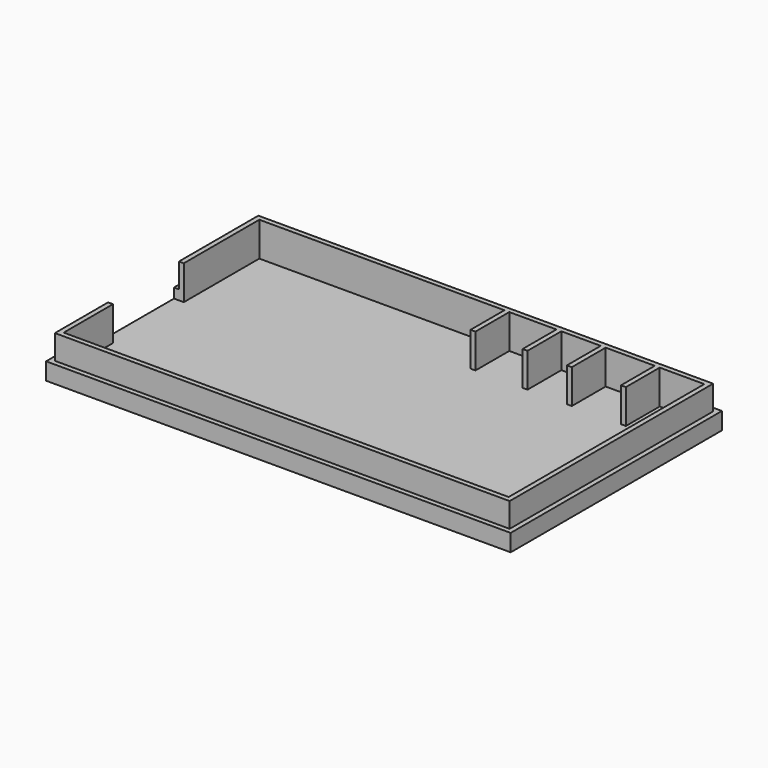
from build123d import *

# Parameters (mm, degrees)
F0_W     = 95
F0_H     = 54
F1_DEPTH = 8.5
F3_DEPTH = 7
F4_W     = 2
F4_H     = 18.1
F5_DEPTH = 7
F7_DEPTH = 5


with BuildPart() as f1:
    # F0 (on Top) → F1 (new body)
    with BuildSketch(Plane.XY):
        Rectangle(F0_W, F0_H)
    extrude(amount=F1_DEPTH)

    # F2 (on face) → F3 (cut)
    with BuildSketch(Plane.XY.offset(8.5)):
        Polygon((-45.5, 25), (-45.5, -25), (45.5, -25), (45.5, 25), (36.37, 25), (36.37, 16.354831), (35.37, 16.354831), (35.37, 25), (25.32, 25), (25.32, 16.354831), (24.32, 16.354831), (24.32, 25), (16.26, 25), (16.26, 16.354831), (15.26, 16.354831), (15.26, 25), (5.62, 25), (5.62, 16.354831), (4.62, 16.354831), (4.62, 25), align=None)
    extrude(amount=-F3_DEPTH, mode=Mode.SUBTRACT)

    # F4 (on face) → F5 (cut)
    with BuildSketch(Plane.XY.offset(8.5)):
        with Locations((-46.5, -3.35)):
            Rectangle(F4_W, F4_H)
    extrude(amount=-F5_DEPTH, mode=Mode.SUBTRACT)

    # F6 (on face) → F7 (cut)
    with BuildSketch(Plane.XY.offset(8.5)):
        Polygon((46.5, -26), (-46.5, -26), (-46.5, -12.4), (-47.5, -12.4), (-47.5, -27), (47.5, -27), (47.5, 27), (-47.5, 27), (-47.5, 5.7), (-46.5, 5.7), (-46.5, 26), (46.5, 26), align=None)
    extrude(amount=-F7_DEPTH, mode=Mode.SUBTRACT)


solid = f1.part
